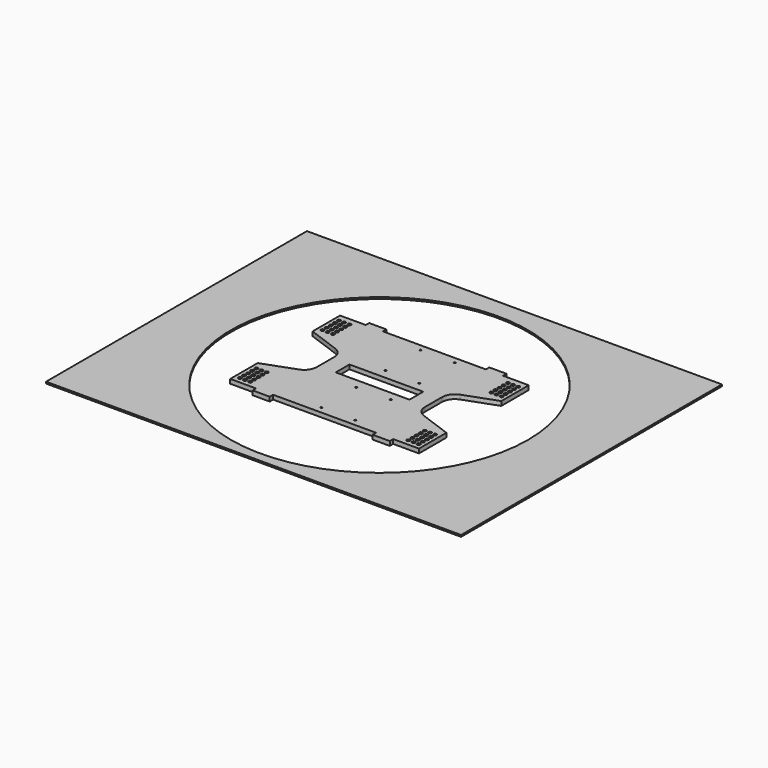
from build123d import *

# Parameters (mm, degrees)
F1_W      = 25.4
F1_H      = 6.35
F2_DEPTH  = 6.35
F0_W      = 614.423186
F0_H      = 482.76107
F0_R      = 220
F3_DEPTH  = 2.54
F5_DEPTH  = 25.4
F6_R      = 2.4003
F7_DEPTH  = 25.4
F8_W      = 109.259037
F8_H      = 25.4
F9_DEPTH  = 25.4
F11_DEPTH = 50.8


with BuildPart() as f2:
    # F1 (on face) → F2 (new body)
    with BuildSketch(Plane.XY):
        Polygon((-97.758854, 101.6), (-135.858854, 101.6), (-135.858854, 51.370811), (-88.194847, 33.268079), (-88.144869, -33.487633), (-135.858854, -51.12635), (-135.858854, -101.6), (-97.758854, -101.6), (-72.358854, -101.6), (80.041146, -101.6), (105.441146, -101.6), (143.541146, -101.6), (143.541146, -51.020265), (95.782734, -33.633832), (95.831849, 33.409029), (143.541146, 50.852332), (143.541146, 101.6), (105.441146, 101.6), (80.041146, 101.6), (-72.358854, 101.6), align=None)
        with Locations((-85.058854, 104.775)):
            Rectangle(F1_W, F1_H)
        Polygon((-88.194847, 33.268079), (-135.858854, 51.370811), (-135.858854, -51.12635), (-88.144869, -33.487633), align=None)
        with Locations((92.741146, 104.775)):
            Rectangle(F1_W, F1_H)
        with Locations((-85.058854, -104.775)):
            Rectangle(F1_W, F1_H)
        Polygon((143.541146, -51.020265), (143.541146, 50.852332), (95.831849, 33.409029), (95.782734, -33.633832), align=None)
        with Locations((92.741146, -104.775)):
            Rectangle(F1_W, F1_H)
    extrude(amount=F2_DEPTH)

    # F4 (on face) → F5 (cut)
    with BuildSketch(Plane.XY.offset(6.35)):
        with BuildLine():
            Line((143.541146, -50.8), (143.541146, 50.8))
            Line((143.541146, 50.8), (96.40518, 33.643912))
            ThreePointArc((96.40518, 33.643912), (87.315818, 26.669398), (83.870664, 15.742767))
            Line((83.870664, 15.742767), (83.870664, -15.742767))
            ThreePointArc((83.870664, -15.742767), (87.315818, -26.669398), (96.40518, -33.643912))
            Line((96.40518, -33.643912), (143.541146, -50.8))
        make_face()
        with BuildLine():
            Line((-88.722889, 33.643912), (-135.858854, 50.8))
            Line((-135.858854, 50.8), (-135.858854, -50.8))
            Line((-135.858854, -50.8), (-88.722889, -33.643912))
            ThreePointArc((-88.722889, -33.643912), (-79.633526, -26.669398), (-76.188373, -15.742767))
            Line((-76.188373, -15.742767), (-76.188373, 15.742767))
            ThreePointArc((-76.188373, 15.742767), (-79.633526, 26.669398), (-88.722889, 33.643912))
        make_face()
    extrude(amount=-F5_DEPTH, mode=Mode.SUBTRACT)

    # F6 (on face) → F7 (cut)
    with BuildSketch(Plane.XY.offset(6.35)):
        with Locations((-128.711089, 90.817392)):
            Circle(F6_R)
        with Locations((-128.711089, 83.197392)):
            Circle(F6_R)
        with Locations((-128.711089, 75.577392)):
            Circle(F6_R)
        with Locations((-128.711089, 67.957392)):
            Circle(F6_R)
        with Locations((-128.711089, 60.337392)):
            Circle(F6_R)
        with Locations((-121.091089, 90.817392)):
            Circle(F6_R)
        with Locations((-121.091089, 83.197392)):
            Circle(F6_R)
        with Locations((-121.091089, 75.577392)):
            Circle(F6_R)
        with Locations((-121.091089, 67.957392)):
            Circle(F6_R)
        with Locations((-121.091089, 60.337392)):
            Circle(F6_R)
        with Locations((-113.471089, 90.817392)):
            Circle(F6_R)
        with Locations((-113.471089, 83.197392)):
            Circle(F6_R)
        with Locations((-113.471089, 75.577392)):
            Circle(F6_R)
        with Locations((-113.471089, 67.957392)):
            Circle(F6_R)
        with Locations((-113.471089, 60.337392)):
            Circle(F6_R)
        with Locations((-113.364959, -62.450852)):
            Circle(F6_R)
        with Locations((-120.984959, -92.930852)):
            Circle(F6_R)
        with Locations((-120.984959, -85.310852)):
            Circle(F6_R)
        with Locations((-128.604959, -92.930852)):
            Circle(F6_R)
        with Locations((-120.984959, -77.690852)):
            Circle(F6_R)
        with Locations((-113.364959, -85.310852)):
            Circle(F6_R)
        with Locations((-113.364959, -77.690852)):
            Circle(F6_R)
        with Locations((-120.984959, -70.070852)):
            Circle(F6_R)
        with Locations((-128.604959, -85.310852)):
            Circle(F6_R)
        with Locations((-128.604959, -77.690852)):
            Circle(F6_R)
        with Locations((-113.364959, -70.070852)):
            Circle(F6_R)
        with Locations((-113.364959, -92.930852)):
            Circle(F6_R)
        with Locations((-120.984959, -62.450852)):
            Circle(F6_R)
        with Locations((-128.604959, -70.070852)):
            Circle(F6_R)
        with Locations((-128.604959, -62.450852)):
            Circle(F6_R)
        with Locations((121.153381, 60.337392)):
            Circle(F6_R)
        with Locations((128.773381, 60.337392)):
            Circle(F6_R)
        with Locations((136.393381, 60.337392)):
            Circle(F6_R)
        with Locations((136.393381, 67.957392)):
            Circle(F6_R)
        with Locations((128.773381, 67.957392)):
            Circle(F6_R)
        with Locations((121.153381, 67.957392)):
            Circle(F6_R)
        with Locations((121.153381, 75.577392)):
            Circle(F6_R)
        with Locations((128.773381, 75.577392)):
            Circle(F6_R)
        with Locations((136.393381, 75.577392)):
            Circle(F6_R)
        with Locations((136.393381, 83.197392)):
            Circle(F6_R)
        with Locations((128.773381, 83.197392)):
            Circle(F6_R)
        with Locations((128.773381, 90.817392)):
            Circle(F6_R)
        with Locations((136.393381, 90.817392)):
            Circle(F6_R)
        with Locations((121.153381, 90.817392)):
            Circle(F6_R)
        with Locations((121.153381, 83.197392)):
            Circle(F6_R)
        with Locations((136.28725, -62.450852)):
            Circle(F6_R)
        with Locations((136.28725, -70.070852)):
            Circle(F6_R)
        with Locations((136.28725, -77.690852)):
            Circle(F6_R)
        with Locations((136.28725, -85.310852)):
            Circle(F6_R)
        with Locations((136.28725, -92.930852)):
            Circle(F6_R)
        with Locations((128.66725, -92.930852)):
            Circle(F6_R)
        with Locations((128.66725, -85.310852)):
            Circle(F6_R)
        with Locations((128.66725, -77.690852)):
            Circle(F6_R)
        with Locations((128.66725, -70.070852)):
            Circle(F6_R)
        with Locations((128.66725, -62.450852)):
            Circle(F6_R)
        with Locations((121.04725, -62.450852)):
            Circle(F6_R)
        with Locations((121.04725, -70.070852)):
            Circle(F6_R)
        with Locations((121.04725, -77.690852)):
            Circle(F6_R)
        with Locations((121.04725, -85.310852)):
            Circle(F6_R)
        with Locations((121.04725, -92.930852)):
            Circle(F6_R)
    extrude(amount=-F7_DEPTH, mode=Mode.SUBTRACT)

    # F8 (on face) → F9 (cut)
    with BuildSketch(Plane.XY.offset(6.35)):
        with Locations((3.841145, 0)):
            Rectangle(F8_W, F8_H)
    extrude(amount=-F9_DEPTH, mode=Mode.SUBTRACT)

    # F10 (on face) → F11 (cut)
    with BuildSketch(Plane.XY.offset(6.35)):
        with BuildLine():
            ThreePointArc((41.58289, -90.921905), (40.684864, -93.08993), (42.85289, -92.191905))
            ThreePointArc((42.85289, -92.191905), (42.480915, -91.293879), (41.58289, -90.921905))
        make_face()
        with BuildLine():
            ThreePointArc((-7.584997, -91.884501), (-7.956972, -90.986476), (-8.854997, -90.614501))
            ThreePointArc((-8.854997, -90.614501), (-9.753023, -92.782527), (-7.584997, -91.884501))
        make_face()
        with BuildLine():
            ThreePointArc((-7.584997, -27.104087), (-7.956972, -26.206062), (-8.854997, -25.834087))
            Line((-8.854997, -25.834087), (-8.854997, -28.374087))
            ThreePointArc((-8.854997, -28.374087), (-7.956972, -28.002113), (-7.584997, -27.104087))
        make_face()
        with BuildLine():
            Line((-8.854997, -28.374087), (-8.854997, -25.834087))
            ThreePointArc((-8.854997, -25.834087), (-10.124997, -27.104087), (-8.854997, -28.374087))
        make_face()
        with BuildLine():
            ThreePointArc((41.58289, -24.997545), (40.31289, -26.267545), (41.58289, -27.537545))
            Line((41.58289, -27.537545), (41.58289, -24.997545))
        make_face()
        with BuildLine():
            Line((41.58289, -24.997545), (41.58289, -27.537545))
            ThreePointArc((41.58289, -27.537545), (42.480915, -27.165571), (42.85289, -26.267545))
            ThreePointArc((42.85289, -26.267545), (42.480915, -25.36952), (41.58289, -24.997545))
        make_face()
        with BuildLine():
            ThreePointArc((-7.584997, 91.884501), (-9.753023, 92.782527), (-8.854997, 90.614501))
            ThreePointArc((-8.854997, 90.614501), (-7.956972, 90.986476), (-7.584997, 91.884501))
        make_face()
        with BuildLine():
            ThreePointArc((-8.854997, 28.374087), (-10.124997, 27.104087), (-8.854997, 25.834087))
            Line((-8.854997, 25.834087), (-8.854997, 28.374087))
        make_face()
        with BuildLine():
            Line((-8.854997, 28.374087), (-8.854997, 25.834087))
            ThreePointArc((-8.854997, 25.834087), (-7.956972, 26.206062), (-7.584997, 27.104087))
            ThreePointArc((-7.584997, 27.104087), (-7.956972, 28.002113), (-8.854997, 28.374087))
        make_face()
        with BuildLine():
            ThreePointArc((42.85289, 92.191905), (40.684864, 93.08993), (41.58289, 90.921905))
            ThreePointArc((41.58289, 90.921905), (42.480915, 91.293879), (42.85289, 92.191905))
        make_face()
        with BuildLine():
            ThreePointArc((41.58289, 27.537545), (40.31289, 26.267545), (41.58289, 24.997545))
            Line((41.58289, 24.997545), (41.58289, 27.537545))
        make_face()
        with BuildLine():
            Line((41.58289, 27.537545), (41.58289, 24.997545))
            ThreePointArc((41.58289, 24.997545), (42.480915, 25.36952), (42.85289, 26.267545))
            ThreePointArc((42.85289, 26.267545), (42.480915, 27.165571), (41.58289, 27.537545))
        make_face()
    extrude(amount=-F11_DEPTH, mode=Mode.SUBTRACT)


with BuildPart() as f3:
    # F0 (on Top) → F3 (new body)
    with BuildSketch(Plane.XY):
        with Locations((4.857525, 7.080205)):
            Rectangle(F0_W, F0_H)
        with Locations((3.841146, 0)):
            Circle(F0_R, mode=Mode.SUBTRACT)
    extrude(amount=F3_DEPTH)


solid = Compound([f2.part, f3.part])
